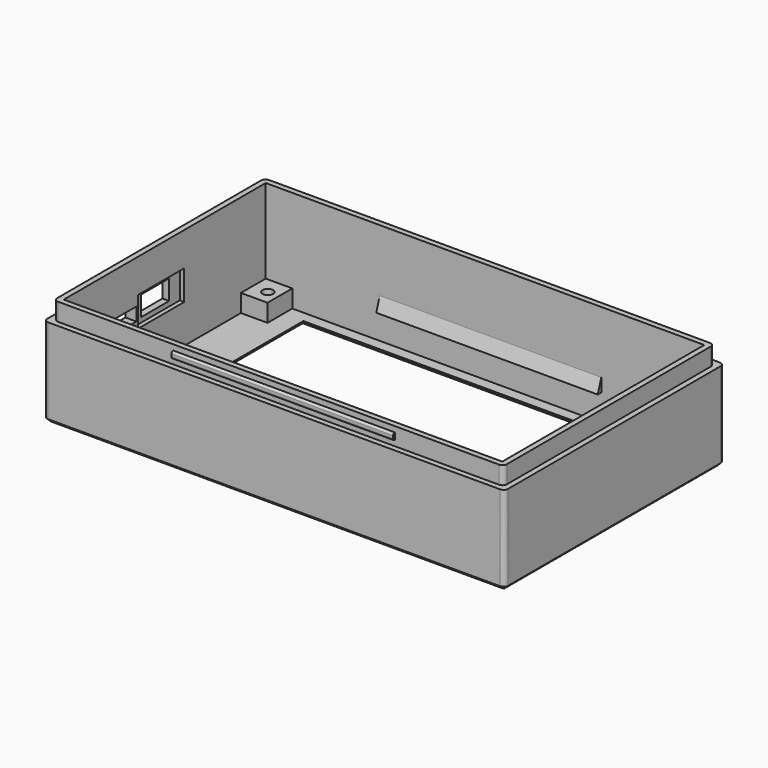
from build123d import *

# Parameters (mm, degrees)
SKETCH_W        = 104
SKETCH_H        = 62
PAD_DEPTH       = 20
SKETCH001_W     = 99
SKETCH001_H     = 57
POCKET_DEPTH    = 19
SKETCH002_W     = 6
SKETCH002_H     = 7
SKETCH002_R     = 1.2
PAD001_DEPTH    = 4
SKETCH003_W     = 75
SKETCH003_H     = 52
POCKET001_DEPTH = 1
SKETCH004_W     = 101.5
SKETCH004_H     = 59.5
SKETCH004_W_2   = 99
SKETCH004_H_2   = 57
PAD002_DEPTH    = 4
SKETCH005_W     = 0.5
SKETCH005_H     = 1.5
PAD003_DEPTH    = 50
FILLET_R        = 0.45
FILLET001_R     = 0.45
FILLET002_R     = 1
CHAMFER_SIZE    = 0.75
CHAMFER001_SIZE = 0.75
SKETCH006_W     = 8
SKETCH006_H     = 3
SKETCH006_H_2   = 4.5
POCKET002_DEPTH = 2.5
SKETCH009_W     = 13
SKETCH009_H     = 6.7
POCKET003_DEPTH = 1


with BuildPart() as part:
    # Sketch → Pad (new body)
    with BuildSketch(Plane.XY):
        Rectangle(SKETCH_W, SKETCH_H)
    extrude(amount=PAD_DEPTH)

    # Sketch001 (on Face6 of Pad) → Pocket (cut)
    with BuildSketch(Plane.XY.offset(20)):
        Rectangle(SKETCH001_W, SKETCH001_H)
    extrude(amount=-POCKET_DEPTH, mode=Mode.SUBTRACT)

    # Sketch002 (on Face11 of Pocket) → Pad001 (join)
    with BuildSketch(Plane.XY.offset(1)):
        with Locations((-46.5, 25)):
            Rectangle(SKETCH002_W, SKETCH002_H)
        with Locations((-46, 24.75)):
            Circle(SKETCH002_R, mode=Mode.SUBTRACT)
        with Locations((46.5, 25)):
            Rectangle(SKETCH002_W, SKETCH002_H)
        with Locations((46, 24.75)):
            Circle(SKETCH002_R, mode=Mode.SUBTRACT)
        with Locations((-46.5, -25)):
            Rectangle(SKETCH002_W, SKETCH002_H)
        with Locations((-46, -24.75)):
            Circle(SKETCH002_R, mode=Mode.SUBTRACT)
        with Locations((46.5, -25)):
            Rectangle(SKETCH002_W, SKETCH002_H)
        with Locations((46, -24.75)):
            Circle(SKETCH002_R, mode=Mode.SUBTRACT)
    extrude(amount=PAD001_DEPTH)

    # Sketch003 (on Face13 of Pad001) → Pocket001 (cut)
    with BuildSketch(Plane.XY.offset(1)):
        with Locations((-1.5, 0)):
            Rectangle(SKETCH003_W, SKETCH003_H)
    extrude(amount=-POCKET001_DEPTH, mode=Mode.SUBTRACT)

    # Sketch004 (on Face5 of Pocket001) → Pad002 (join)
    with BuildSketch(Plane.XY.offset(20)):
        Rectangle(SKETCH004_W, SKETCH004_H)
        Rectangle(SKETCH004_W_2, SKETCH004_H_2, mode=Mode.SUBTRACT)
    extrude(amount=PAD002_DEPTH)

    # Sketch005 (on Face14 of Pad002) → Pad003 (join)
    with BuildSketch(Plane(origin=(-23.75, 0, 0), x_dir=(0, -1, 0), z_dir=(-1, 0, 0))):
        with Locations((-30, 22)):
            Rectangle(SKETCH005_W, SKETCH005_H)
        with Locations((30, 22)):
            Rectangle(SKETCH005_W, SKETCH005_H)
        Polygon((-28.5, 7), (-27.5, 7), (-28.5, 10), align=None)
        Polygon((28.5, 7), (28.5, 10), (27.5, 7), align=None)
    extrude(amount=-PAD003_DEPTH)

    # Fillet
    fillet_edges = [part.edges().sort_by_distance(p)[0] for p in [
        (1.25, -30.25, 22.75),
        (1.25, -30.25, 21.25),
    ]]
    fillet(fillet_edges, radius=FILLET_R)

    # Fillet001
    fillet001_edges = [part.edges().sort_by_distance(p)[0] for p in [
        (1.25, 30.25, 22.75),
        (1.25, 30.25, 21.25),
    ]]
    fillet(fillet001_edges, radius=FILLET001_R)

    # Fillet002
    fillet002_edges = [part.edges().sort_by_distance(p)[0] for p in [
        (-50.75, -29.75, 22),
        (-52, -31, 10),
        (-50.75, 29.75, 22),
        (-52, 31, 10),
        (50.75, 29.75, 22),
        (52, 31, 10),
        (50.75, -29.75, 22),
        (52, -31, 10),
    ]]
    fillet(fillet002_edges, radius=FILLET002_R)

    # Chamfer
    chamfer_edges = [part.edges().sort_by_distance(p)[0] for p in [
        (-52, 0, 0),
        (0, -31, 0),
        (52, 0, 0),
        (0, 31, 0),
    ]]
    chamfer(chamfer_edges, length=CHAMFER_SIZE)

    # Chamfer001
    chamfer001_edges = [part.edges().sort_by_distance(p)[0] for p in [
        (-39, 0, 0),
        (-1.5, -26, 0),
        (36, 0, 0),
        (-1.5, 26, 0),
    ]]
    chamfer(chamfer001_edges, length=CHAMFER001_SIZE)

    # Sketch006 (on Face2 of Pad003) → Pocket002 (cut)
    with BuildSketch(Plane(origin=(-52, 0, 0), x_dir=(0, -1, 0), z_dir=(-1, 0, 0))):
        with Locations((12, 12.8)):
            Rectangle(SKETCH006_W, SKETCH006_H)
        with Locations((1.5, 13.05)):
            Rectangle(SKETCH006_W, SKETCH006_H_2)
    extrude(amount=-POCKET002_DEPTH, mode=Mode.SUBTRACT)

    # Sketch009 (on Face40 of Pocket002) → Pocket003 (cut)
    with BuildSketch(Plane.YZ.offset(-49.5)):
        with Locations((-1, 13.05)):
            Rectangle(SKETCH009_W, SKETCH009_H)
    extrude(amount=-POCKET003_DEPTH, mode=Mode.SUBTRACT)


solid = part.part
